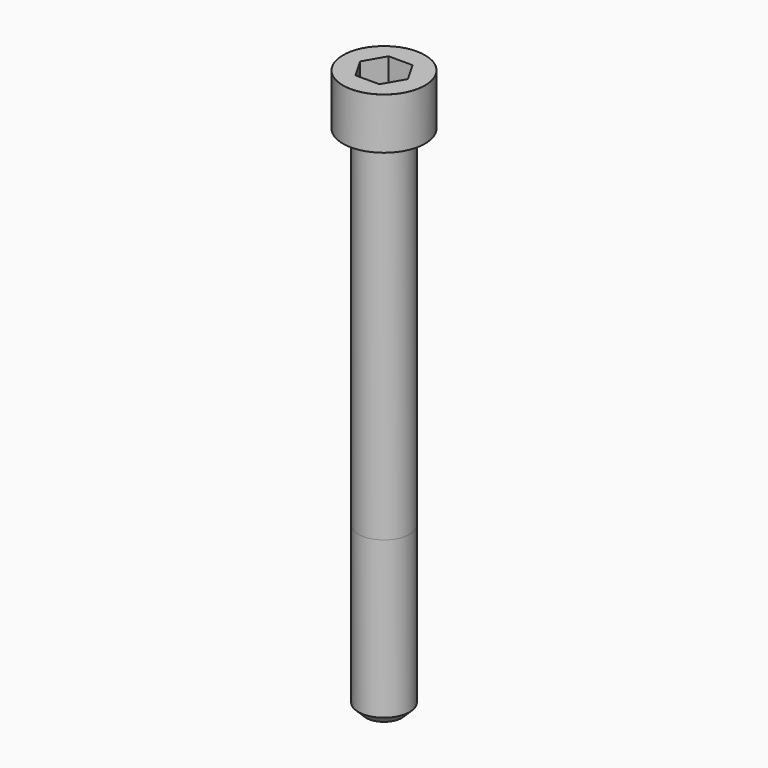
from build123d import *

# Parameters (mm, degrees)
POCKET_DEPTH = 8.07


with BuildPart() as part:
    # Sketch → Revolve (revolve)
    with BuildSketch(Plane.YZ):
        with BuildLine():
            Line((4.999, 0), (8, 0))
            Line((8, 0), (8, 9.97229))
            ThreePointArc((8, 9.97229), (7.991884, 9.991884), (7.97229, 10))
            Line((7.97229, 10), (0, 10))
            Line((0, -100), (0, 10))
            Line((3.5, -100), (0, -100))
            Line((5, -98.5), (3.5, -100))
            Line((5, -68), (5, -98.5))
            Line((4.999, 0), (5, -68))
        make_face()
    revolve(axis=Axis((0, 0, 0), (0, 0, 1)))

    # Sketch001 → Pocket (cut)
    with BuildSketch(Plane.XY.offset(10)):
        Polygon((4.659217, 0), (2.329608, 4.035), (-2.329608, 4.035), (-4.659217, 0), (-2.329608, -4.035), (2.329608, -4.035), align=None)
    extrude(amount=-POCKET_DEPTH, mode=Mode.SUBTRACT)


solid = part.part
